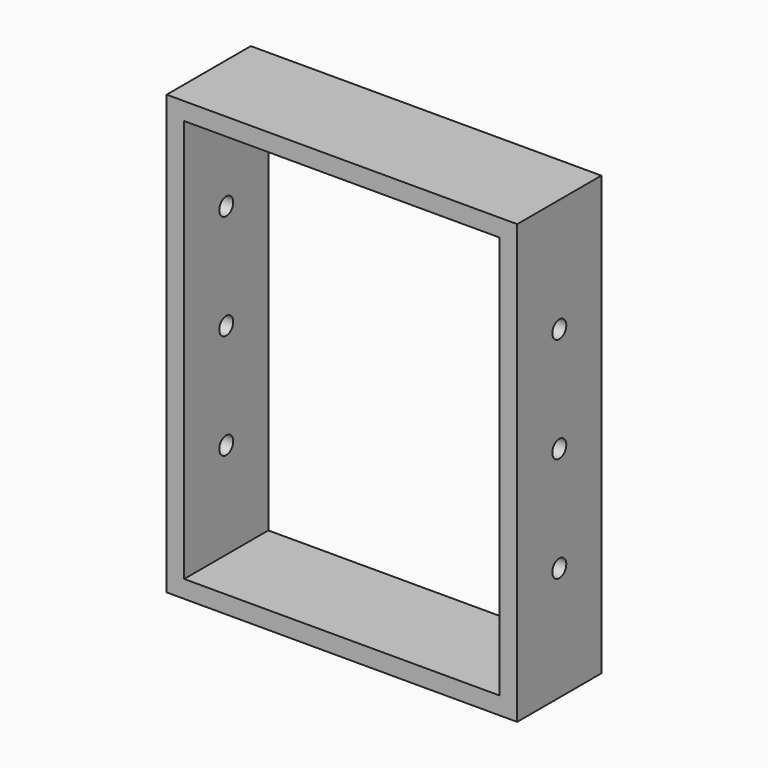
from build123d import *

# Parameters (mm, degrees)
F0_W          = 100
F0_H          = 125
F0_W_2        = 90
F0_H_2        = 115
F1_DEPTH      = 30
F2_R          = 2.5
F3_DEPTH      = 200
F3_DEPTH_BACK = 200


with BuildPart() as f1:
    # F0 (on Front) → F1 (new body)
    with BuildSketch(Plane.XZ):
        Rectangle(F0_W, F0_H)
        Rectangle(F0_W_2, F0_H_2, mode=Mode.SUBTRACT)
    extrude(amount=F1_DEPTH)

    # F2 (on face) → F3 (cut, two sides)
    with BuildSketch(Plane(origin=(-50, 0, 0), x_dir=(0, -1, 0), z_dir=(-1, 0, 0))) as f3_sk:
        with Locations((15, 30)):
            Circle(F2_R)
        with Locations((15, 0)):
            Circle(F2_R)
        with Locations((15, -30)):
            Circle(F2_R)
    extrude(amount=F3_DEPTH, mode=Mode.SUBTRACT)
    extrude(f3_sk.sketch, amount=-F3_DEPTH_BACK, mode=Mode.SUBTRACT)


solid = f1.part
